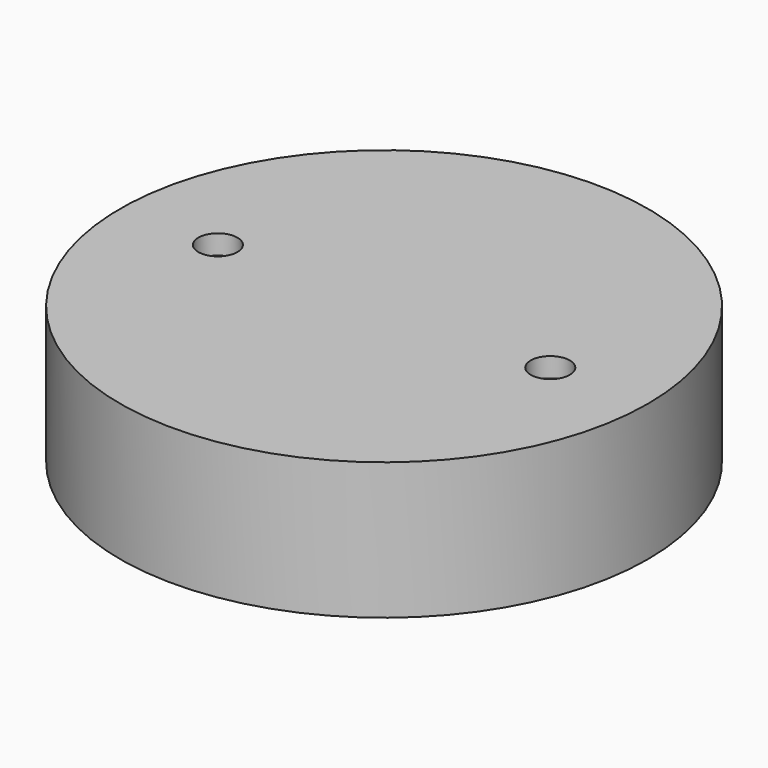
from build123d import *

# Parameters (mm, degrees)
F0_R     = 40.5
F1_DEPTH = 21
F2_R     = 3
F3_DEPTH = 3
F4_R     = 1.5
F5_DEPTH = 25
F7_DEPTH = 9
F8_R     = 3
F9_DEPTH = 20


with BuildPart() as f1:
    # F0 (on Top) → F1 (new body)
    with BuildSketch(Plane.XY):
        Circle(F0_R)
    extrude(amount=F1_DEPTH)

    # F2 (on face) → F3 (cut)
    with BuildSketch(Plane.XY.offset(21)):
        with Locations((-25.5, 0)):
            Circle(F2_R)
        with Locations((25.5, 0)):
            Circle(F2_R)
    extrude(amount=-F3_DEPTH, mode=Mode.SUBTRACT)

    # F4 (on face) → F5 (cut)
    with BuildSketch(Plane.XY.offset(18)):
        with Locations((-25.5, 0)):
            Circle(F4_R)
        with Locations((25.5, 0)):
            Circle(F4_R)
    extrude(amount=-F5_DEPTH, mode=Mode.SUBTRACT)

    # F6 (on face) → F7 (cut)
    with BuildSketch(Plane(origin=(0, 0, 0), x_dir=(1, 0, 0), z_dir=(0, 0, -1))):
        Polygon((2.886751, 5), (-2.886751, 5), (-5.773503, 0), (-2.886751, -5), (2.886751, -5), (5.773503, 0), align=None)
    extrude(amount=-F7_DEPTH, mode=Mode.SUBTRACT)

    # F8 (on face) → F9 (cut)
    with BuildSketch(Plane(origin=(0, 0, 0), x_dir=(1, 0, 0), z_dir=(0, 0, -1))):
        Circle(F8_R)
    extrude(amount=-F9_DEPTH, mode=Mode.SUBTRACT)


solid = f1.part
